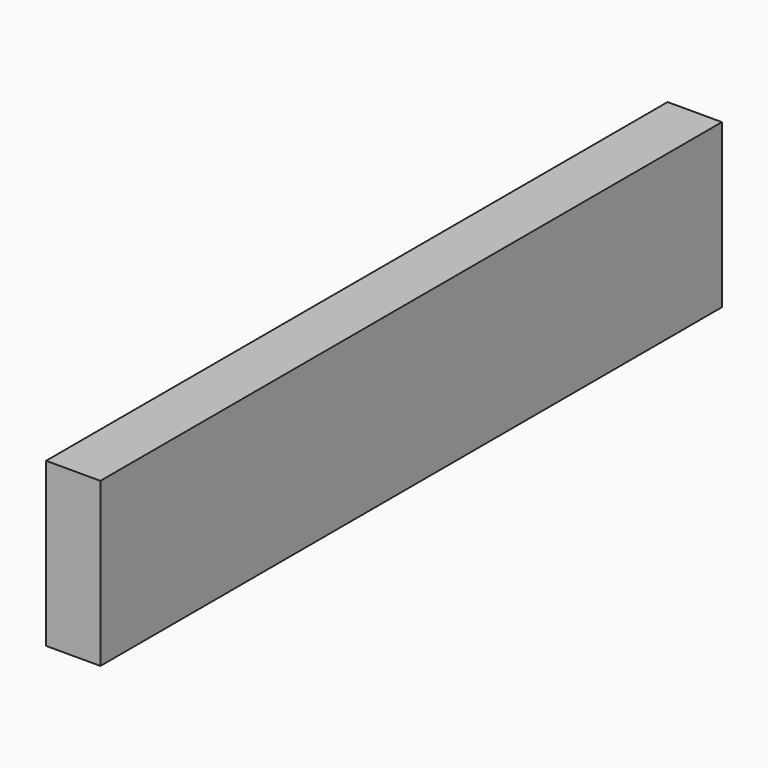
from build123d import *

# Parameters (mm, degrees)
F0_W     = 254
F0_H     = 762
F1_DEPTH = 3632.2
F2_W     = 25.4
F2_H     = 25.4
F3_DEPTH = 0.254


with BuildPart() as f1:
    # F0 (on Front) → F1 (new body)
    with BuildSketch(Plane.XZ):
        Rectangle(F0_W, F0_H)
    extrude(amount=F1_DEPTH)

    # F2 (on face) → F3 (join)
    with BuildSketch(Plane(origin=(-127, 0, 0), x_dir=(0, -1, 0), z_dir=(-1, 0, 0))):
        with Locations((317.5, 342.9)):
            Rectangle(F2_W, F2_H)
        with Locations((1816.1, 342.9)):
            Rectangle(F2_W, F2_H)
        with Locations((3314.7, 342.9)):
            Rectangle(F2_W, F2_H)
    extrude(amount=F3_DEPTH)


solid = f1.part
